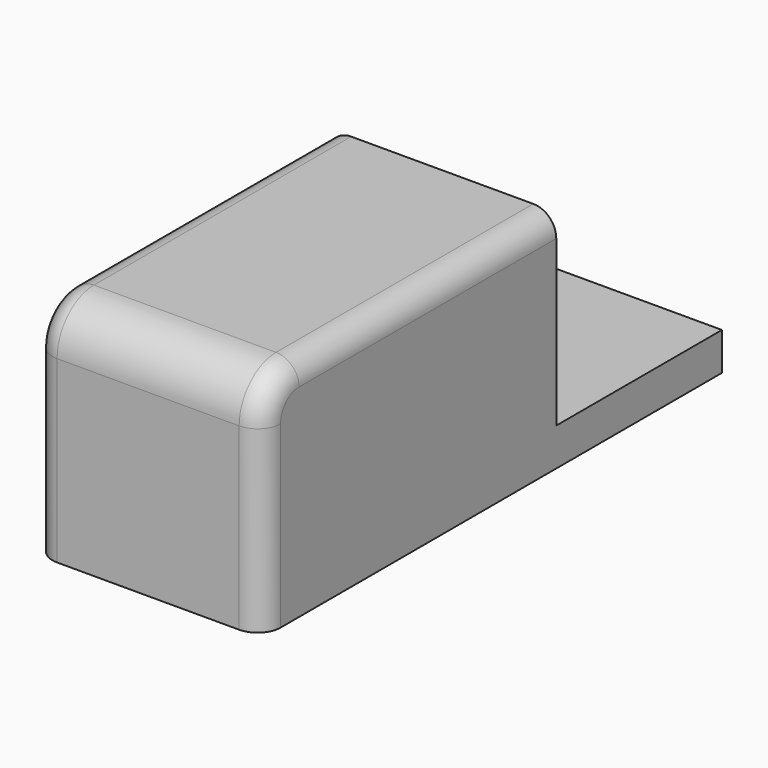
from build123d import *

# Parameters (mm, degrees)
F0_W     = 49.5728366077
F0_H     = 49.0062981844
F1_DEPTH = 79.9
F2_W     = 49.5728366077
F2_H     = 8.2149282098
F3_DEPTH = 45
F4_R     = 10
F5_R     = 5


with BuildPart() as f1:
    # F0 (on Front) → F1 (new body)
    with BuildSketch(Plane.XZ):
        Rectangle(F0_W, F0_H)
    extrude(amount=-F1_DEPTH)

    # F2 (on face) → F3 (join)
    with BuildSketch(Plane(origin=(0, 79.9, 0), x_dir=(-1, 0, 0), z_dir=(0, 1, 0))):
        with Locations((0, -20.3956849873)):
            Rectangle(F2_W, F2_H)
    extrude(amount=F3_DEPTH)

    # F4
    f4_edges = [f1.edges().sort_by_distance(p)[0] for p in [
        (0, 0, 24.503149),
    ]]
    fillet(f4_edges, radius=F4_R)

    # F5
    f5_edges = [f1.edges().sort_by_distance(p)[0] for p in [
        (24.786418, 2.928932, 21.574217),
        (-24.786418, 2.928932, 21.574217),
    ]]
    fillet(f5_edges, radius=F5_R)


solid = f1.part
